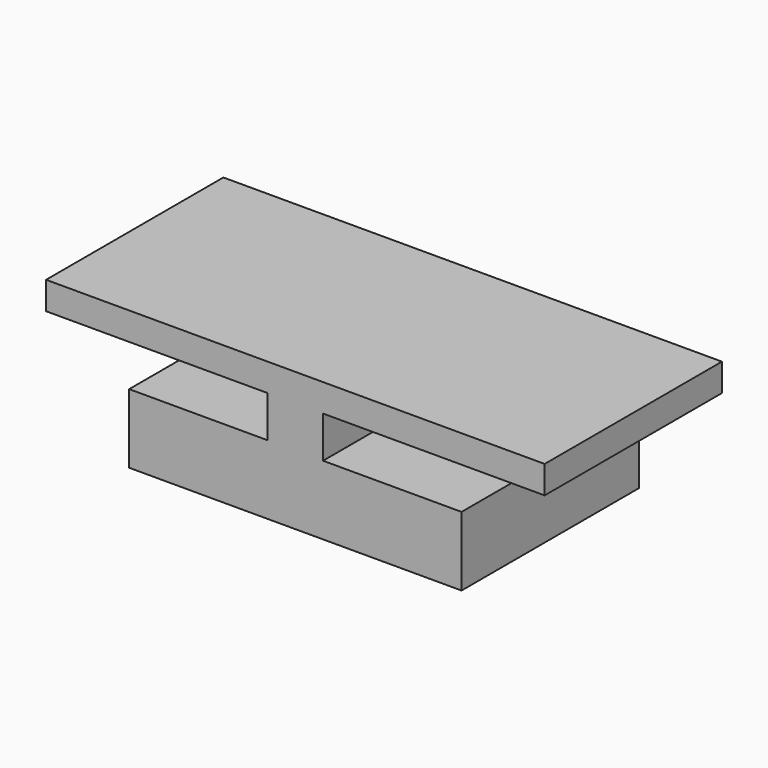
from build123d import *

# Parameters (mm, degrees)
F0_W     = 5
F0_H     = 8
F0_R     = 1.5
F1_DEPTH = 0.5
F0_W_2   = 2
F2_DEPTH = 2
F4_W     = 18
F4_H     = 8
F5_DEPTH = 1
F6_DEPTH = 2


with BuildPart() as f1:
    # F0 (on Top) → F1 (new body)
    with BuildSketch(Plane.XY):
        with Locations((-3.5, 0)):
            Rectangle(F0_W, F0_H)
        with Locations((-3, 0)):
            Circle(F0_R, mode=Mode.SUBTRACT)
        with Locations((3.5, 0)):
            Rectangle(F0_W, F0_H)
        with Locations((3, 0)):
            Circle(F0_R, mode=Mode.SUBTRACT)
    extrude(amount=F1_DEPTH)

    # F0 (on Top) → F2 (join)
    with BuildSketch(Plane.XY):
        Rectangle(F0_W_2, F0_H)
    extrude(amount=F2_DEPTH)

    # F4 (on offset) → F5 (join)
    with BuildSketch(Plane.XY.offset(2)):
        Rectangle(F4_W, F4_H)
    extrude(amount=F5_DEPTH)

    # F0 (on Top) → F6 (join)
    with BuildSketch(Plane.XY):
        with Locations((-3.5, 0)):
            Rectangle(F0_W, F0_H)
        with Locations((-3, 0)):
            Circle(F0_R, mode=Mode.SUBTRACT)
        Rectangle(F0_W_2, F0_H)
        with Locations((3.5, 0)):
            Rectangle(F0_W, F0_H)
        with Locations((3, 0)):
            Circle(F0_R, mode=Mode.SUBTRACT)
    extrude(amount=-F6_DEPTH)


solid = f1.part
